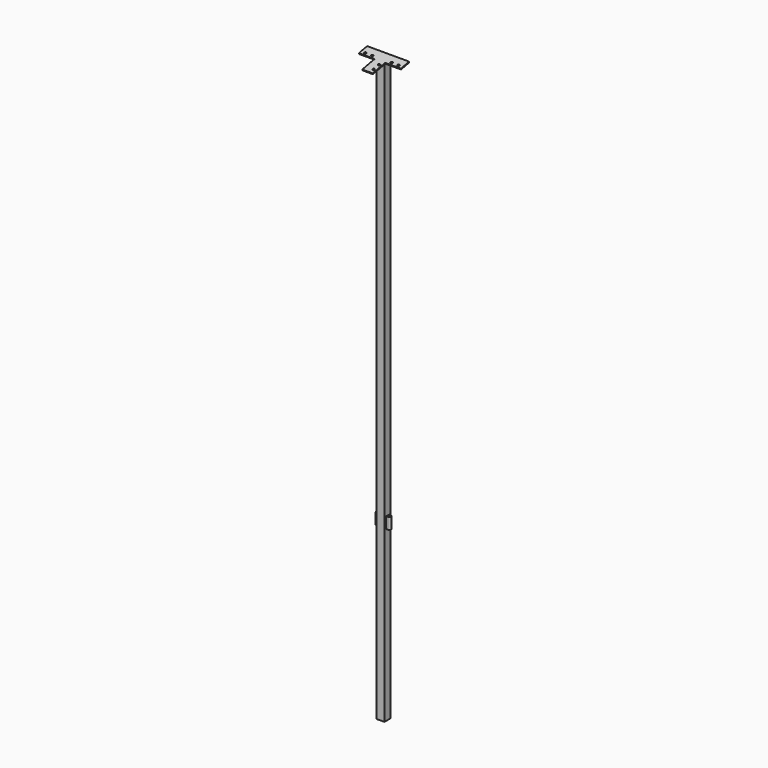
from build123d import *

# Parameters (mm, degrees)
F0_W      = 45
F0_H      = 45
F1_DEPTH  = 3330
F4_DEPTH  = 5
F5_R      = 8
F6_DEPTH  = 60
F9_W      = 45
F9_H      = 45.842251273
F10_DEPTH = 25
F11_W     = 60
F11_H     = 60
F11_W_2   = 90
F11_H_2   = 90
F12_DEPTH = 5
F13_R     = 6
F14_DEPTH = 25
F15_W     = 150
F15_H     = 4.7702248844
F16_DEPTH = 3358.6871623993
F18_DEPTH = 111


with BuildPart() as f1:
    # F0 (on Top) → F1 (new body)
    with BuildSketch(Plane.XY):
        Rectangle(F0_W, F0_H)
    extrude(amount=F1_DEPTH)

    # F3 (on offset) → F4 (join)
    with BuildSketch(Plane.XY.offset(965)):
        with BuildLine():
            Line((-22.5, 0), (0, 0))
            Line((0, 0), (22.5, 0))
            ThreePointArc((22.5, 0), (22.5506384699, 1.0050896201), (22.7020410289, 2))
            ThreePointArc((22.7020410289, 2), (26.1754446797, 7.7459666924), (32.5, 10))
            Line((32.5, 10), (-32.5, 10))
            ThreePointArc((-32.5, 10), (-25.4289321881, 7.0710678119), (-22.5, 0))
        make_face()
        with BuildLine():
            Line((22.5, 0), (0, 0))
            Line((0, 0), (-22.5, 0))
            ThreePointArc((-22.5, 0), (-25.4289321881, -7.0710678119), (-32.5, -10))
            Line((-32.5, -10), (32.5, -10))
            ThreePointArc((32.5, -10), (26.1754446797, -7.7459666924), (22.7020410289, -2))
            ThreePointArc((22.7020410289, -2), (22.5506384699, -1.0050896201), (22.5, 0))
        make_face()
        with BuildLine():
            ThreePointArc((-32.5, -10), (-25.4289321881, -7.0710678119), (-22.5, 0))
            Line((-22.5, 0), (-32.5, 0))
            Line((-32.5, 0), (-32.5, -10))
        make_face()
        with BuildLine():
            Line((-32.5, 0), (-22.5, 0))
            ThreePointArc((-22.5, 0), (-25.4289321881, 7.0710678119), (-32.5, 10))
            Line((-32.5, 10), (-32.5, 0))
        make_face()
        with BuildLine():
            Line((32.5, 2), (32.5, 0))
            Line((32.5, 0), (32.5, -2))
            Line((32.5, -2), (22.7020410289, -2))
            ThreePointArc((22.7020410289, -2), (26.1754446797, -7.7459666924), (32.5, -10))
            ThreePointArc((32.5, -10), (39.5710678119, -7.0710678119), (42.5, 0))
            ThreePointArc((42.5, 0), (39.5710678119, 7.0710678119), (32.5, 10))
            Line((32.5, 10), (32.5, 2))
        make_face()
        with BuildLine():
            ThreePointArc((32.5, 10), (26.1754446797, 7.7459666924), (22.7020410289, 2))
            Line((22.7020410289, 2), (32.5, 2))
            Line((32.5, 2), (32.5, 10))
        make_face()
        with BuildLine():
            Line((-32.5, -10), (-32.5, 0))
            Line((-32.5, 0), (-32.5, 10))
            ThreePointArc((-32.5, 10), (-42.5, 0), (-32.5, -10))
        make_face()
        with BuildLine():
            ThreePointArc((22.7020410289, 2), (22.5506384699, 1.0050896201), (22.5, 0))
            Line((22.5, 0), (32.5, 0))
            Line((32.5, 0), (32.5, 2))
            Line((32.5, 2), (22.7020410289, 2))
        make_face()
        with BuildLine():
            Line((32.5, 0), (22.5, 0))
            ThreePointArc((22.5, 0), (22.5506384699, -1.0050896201), (22.7020410289, -2))
            Line((22.7020410289, -2), (32.5, -2))
            Line((32.5, -2), (32.5, 0))
        make_face()
    extrude(amount=F4_DEPTH)

    # F5 (on face) → F6 (join)
    with BuildSketch(Plane.XY.offset(970)):
        with BuildLine():
            ThreePointArc((32.5, -10), (39.5710678119, -7.0710678119), (42.5, 0))
            ThreePointArc((42.5, 0), (39.5710678119, 7.0710678119), (32.5, 10))
            ThreePointArc((32.5, 10), (25.4289321881, 7.0710678119), (22.5, 0))
            ThreePointArc((22.5, 0), (25.4289321881, -7.0710678119), (32.5, -10))
        make_face()
        with Locations((32.5, 0)):
            Circle(F5_R, mode=Mode.SUBTRACT)
        with BuildLine():
            ThreePointArc((-32.5, -10), (-25.4289321881, -7.0710678119), (-22.5, 0))
            ThreePointArc((-22.5, 0), (-25.4289321881, 7.0710678119), (-32.5, 10))
            ThreePointArc((-32.5, 10), (-42.5, 0), (-32.5, -10))
        make_face()
        with Locations((-32.5, 0)):
            Circle(F5_R, mode=Mode.SUBTRACT)
        with BuildLine():
            Line((22.5, -10), (32.5, -10))
            ThreePointArc((32.5, -10), (25.4289321881, -7.0710678119), (22.5, 0))
            Line((22.5, 0), (22.5, -10))
        make_face()
        with BuildLine():
            ThreePointArc((22.5, 0), (25.4289321881, 7.0710678119), (32.5, 10))
            Line((32.5, 10), (22.5, 10))
            Line((22.5, 10), (22.5, 0))
        make_face()
        with BuildLine():
            ThreePointArc((-32.5, 10), (-25.4289321881, 7.0710678119), (-22.5, 0))
            Line((-22.5, 0), (-22.5, 10))
            Line((-22.5, 10), (-32.5, 10))
        make_face()
        with BuildLine():
            Line((-22.5, -10), (-22.5, 0))
            ThreePointArc((-22.5, 0), (-25.4289321881, -7.0710678119), (-32.5, -10))
            Line((-32.5, -10), (-22.5, -10))
        make_face()
    extrude(amount=F6_DEPTH)

    # F9 (on face) → F10 (join)
    with BuildSketch(Plane(origin=(0, -624.5391596736, 3212.9754420296), x_dir=(1, 0, 0), z_dir=(0, 0.1908089954, -0.9816271834))):
        with Locations((0, -636.2284686128)):
            Rectangle(F9_W, F9_H)
    extrude(amount=F10_DEPTH)

    # F11 (on face) → F12 (join)
    with BuildSketch(Plane(origin=(0, -624.5391596736, 3212.9754420296), x_dir=(1, 0, 0), z_dir=(0, 0.1908089954, -0.9816271834))):
        with Locations((7.5, -629.1495942493)):
            Rectangle(F11_W, F11_H)
        with Locations((-67.5, -629.1495942493)):
            Rectangle(F11_W_2, F11_H)
        with Locations((82.5, -629.1495942493)):
            Rectangle(F11_W_2, F11_H)
        with Locations((7.5, -554.1495942493)):
            Rectangle(F11_W, F11_H_2)
    extrude(amount=F12_DEPTH)

    # F13 (on face) → F14 (cut)
    with BuildSketch(Plane(origin=(0, -624.5391596736, 3212.9754420296), x_dir=(1, 0, 0), z_dir=(0, -0.1908089954, 0.9816271834))):
        with BuildLine():
            ThreePointArc((22.5, 540.1495942493), (18.2573593129, 529.9069535622), (28.5, 534.1495942493))
            Line((28.5, 534.1495942493), (22.5, 534.1495942493))
            Line((22.5, 534.1495942493), (22.5, 540.1495942493))
        make_face()
        with BuildLine():
            Line((22.5, 534.1495942493), (28.5, 534.1495942493))
            ThreePointArc((28.5, 534.1495942493), (26.7426406871, 538.3922349364), (22.5, 540.1495942493))
            Line((22.5, 540.1495942493), (22.5, 534.1495942493))
        make_face()
        with BuildLine():
            ThreePointArc((28.5, 574.1495942493), (18.2573593129, 578.3922349364), (22.5, 568.1495942493))
            ThreePointArc((22.5, 568.1495942493), (26.7426406871, 569.9069535622), (28.5, 574.1495942493))
        make_face()
        with BuildLine():
            ThreePointArc((96.5, 614.1495942493), (98.2573593129, 609.9069535622), (102.5, 608.1495942493))
            Line((102.5, 608.1495942493), (102.5, 614.1495942493))
            Line((102.5, 614.1495942493), (96.5, 614.1495942493))
        make_face()
        with Locations((62.5, 614.1495942493)):
            Circle(F13_R)
        with BuildLine():
            Line((102.5, 614.1495942493), (102.5, 608.1495942493))
            ThreePointArc((102.5, 608.1495942493), (106.7426406871, 609.9069535622), (108.5, 614.1495942493))
            ThreePointArc((108.5, 614.1495942493), (102.5, 620.1495942493), (96.5, 614.1495942493))
            Line((96.5, 614.1495942493), (102.5, 614.1495942493))
        make_face()
        with Locations((-47.5, 614.1495942493)):
            Circle(F13_R)
        with Locations((-87.5, 614.1495942493)):
            Circle(F13_R)
    extrude(amount=-F14_DEPTH, mode=Mode.SUBTRACT)

    # F15 (on Top) → F16 (cut)
    with BuildSketch(Plane.XY):
        with Locations((52.5, 24.8851124422)):
            Rectangle(F15_W, F15_H)
    extrude(amount=F16_DEPTH, mode=Mode.SUBTRACT)

    # F17 (on face) → F18 (cut)
    with BuildSketch(Plane.YZ.offset(-22.5)):
        Polygon((22.5, 3333.6535304364), (23.4540449769, 3333.838977994), (22.5, 3338.7471139112), align=None)
    extrude(amount=-F18_DEPTH, mode=Mode.SUBTRACT)


solid = f1.part
